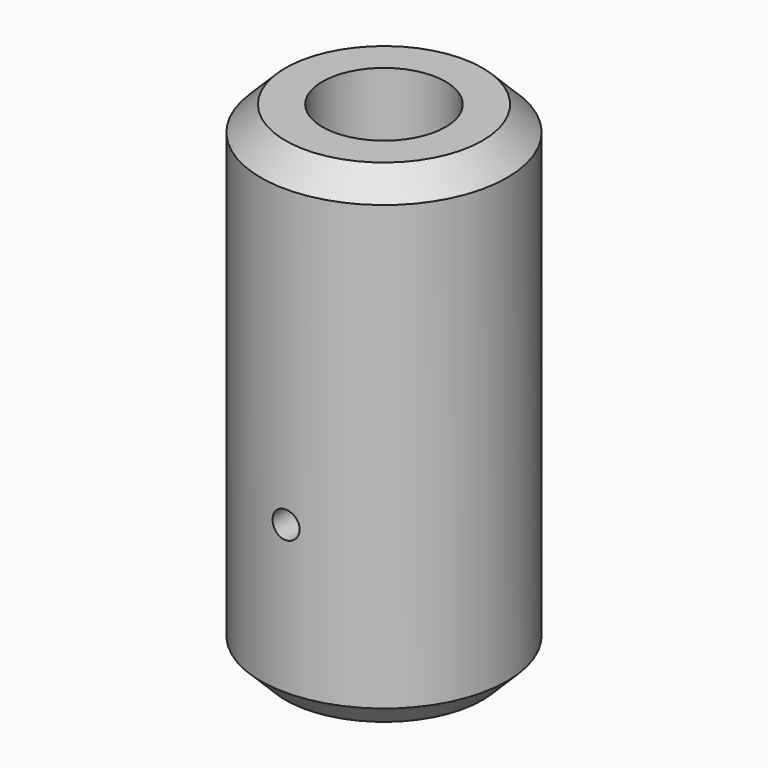
from build123d import *

# Parameters (mm, degrees)
F0_R     = 25
F0_R_2   = 12.5
F1_DEPTH = 100
F2_SIZE  = 5
F3_SIZE  = 5
F5_D     = 5.5
F5_DEPTH = 25.001


with BuildPart() as f1:
    # F0 (on Top) → F1 (new body)
    with BuildSketch(Plane.XY):
        Circle(F0_R)
        Circle(F0_R_2, mode=Mode.SUBTRACT)
    extrude(amount=F1_DEPTH)

    # F2
    f2_edges = [f1.edges().sort_by_distance(p)[0] for p in [
        (-25, 0, 100),
    ]]
    chamfer(f2_edges, length=F2_SIZE)

    # F3
    f3_edges = [f1.edges().sort_by_distance(p)[0] for p in [
        (-25, 0, 0),
    ]]
    chamfer(f3_edges, length=F3_SIZE)

    # F5 (through all, one way)
    with BuildSketch(Plane(origin=(0, 0, 0), x_dir=(1, 0, 0), z_dir=(0, 1, 0))):
        with Locations((0, -35)):
            Circle(F5_D / 2)
    extrude(amount=-F5_DEPTH, mode=Mode.SUBTRACT)


solid = f1.part
